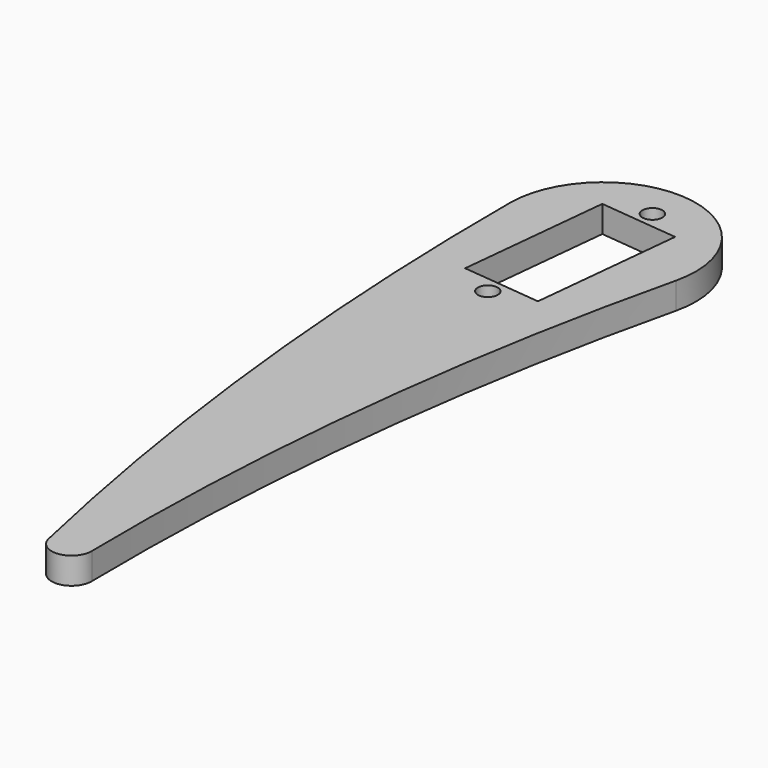
from build123d import *

# Parameters (mm, degrees)
SKETCH_R  = 1.5
PAD_DEPTH = 4


with BuildPart() as part:
    # Sketch → Pad (new body)
    with BuildSketch(Plane.XY):
        with BuildLine():
            ThreePointArc((13.615765, 96.742557), (1.659489, 113.901298), (-13.999945, 100.039225))
            ThreePointArc((-13.999945, 100.039225), (-11.293951, 49.378275), (-2.926476, -0.660106))
            ThreePointArc((-2.926476, -0.660106), (0.356119, -2.978788), (2.99961, 0.048367))
            ThreePointArc((13.615765, 96.742557), (5.2705, 48.728918), (2.99961, 0.048367))
        make_face()
        with Locations((0.848022, 108.256565)):
            Circle(SKETCH_R, mode=Mode.SUBTRACT)
        with Locations((-1.971907, 80.801)):
            Circle(SKETCH_R, mode=Mode.SUBTRACT)
        Polygon((-5.355573, 106.581629), (6.581629, 105.355573), (4.231688, 82.475936), (-7.705514, 83.701992), align=None, mode=Mode.SUBTRACT)
    extrude(amount=PAD_DEPTH)


solid = part.part
